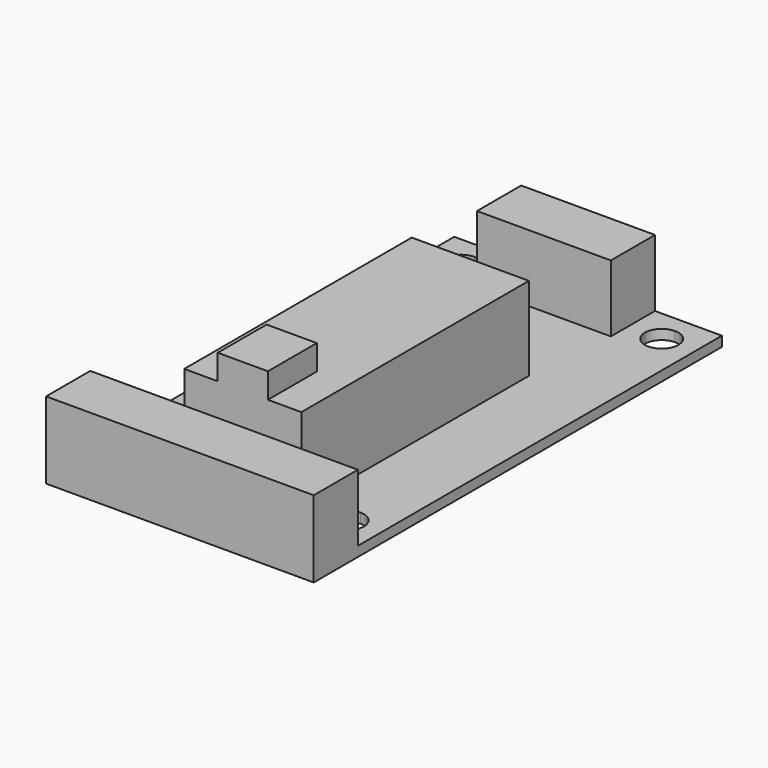
from build123d import *

# Parameters (mm, degrees)
F0_W      = 40.64
F0_H      = 77.47
F1_DEPTH  = 1.5
F2_W      = 40.64
F2_H      = 8.382
F3_DEPTH  = 10.16
F4_W      = 10.16
F4_H      = 8.382
F5_DEPTH  = 10.16
F7_DEPTH  = 1.5
F9_DEPTH  = 12.7
F10_W     = 7.62
F10_H     = 9.271
F11_DEPTH = 3.81


with BuildPart() as f1:
    # F0 (on Top) → F1 (new body)
    with BuildSketch(Plane.XY):
        Rectangle(F0_W, F0_H)
    extrude(amount=F1_DEPTH)

    # F2 (on face) → F3 (join)
    with BuildSketch(Plane.XY.offset(1.5)):
        with Locations((0, 34.544)):
            Rectangle(F2_W, F2_H)
        with Locations((0, -34.544)):
            Rectangle(F2_W, F2_H)
    extrude(amount=F3_DEPTH)

    # F4 (on face) → F5 (cut, through all)
    with BuildSketch(Plane.XY.offset(11.66)):
        with Locations((-15.24, 34.544)):
            Rectangle(F4_W, F4_H)
        with Locations((15.24, 34.544)):
            Rectangle(F4_W, F4_H)
    extrude(amount=-F5_DEPTH, mode=Mode.SUBTRACT)

    # F6 (on face) → F7 (cut, through all)
    with BuildSketch(Plane.XY.offset(1.5)):
        with BuildLine():
            ThreePointArc((-15.24, 31.115), (-13.4439487758, 31.8589487758), (-12.7, 33.655))
            ThreePointArc((-12.7, 33.655), (-13.4439487758, 35.4510512242), (-15.24, 36.195))
            ThreePointArc((-15.24, 36.195), (-17.0360512242, 35.4510512242), (-17.78, 33.655))
            ThreePointArc((-17.78, 33.655), (-17.0360512242, 31.8589487758), (-15.24, 31.115))
        make_face()
        with BuildLine():
            ThreePointArc((15.24, 36.195), (13.4439487758, 35.4510512242), (12.7, 33.655))
            ThreePointArc((12.7, 33.655), (13.4439487758, 31.8589487758), (15.24, 31.115))
            ThreePointArc((15.24, 31.115), (17.0360512242, 31.8589487758), (17.78, 33.655))
            ThreePointArc((17.78, 33.655), (17.0360512242, 35.4510512242), (15.24, 36.195))
        make_face()
        with BuildLine():
            ThreePointArc((17.78, -26.035), (17.0360512242, -24.2389487758), (15.24, -23.495))
            ThreePointArc((15.24, -23.495), (13.4439487758, -24.2389487758), (12.7, -26.035))
            ThreePointArc((12.7, -26.035), (15.24, -28.575), (17.78, -26.035))
        make_face()
        with BuildLine():
            ThreePointArc((-15.24, -23.495), (-17.0360512242, -27.8310512242), (-12.7, -26.035))
            ThreePointArc((-12.7, -26.035), (-13.4439487758, -24.2389487758), (-15.24, -23.495))
        make_face()
    extrude(amount=-F7_DEPTH, mode=Mode.SUBTRACT)

    # F8 (on face) → F9 (join)
    with BuildSketch(Plane.XY.offset(1.5)):
        Polygon((8.89, -26.797), (8.89, 16.383), (0, 16.383), (-8.89, 16.383), (-8.89, -26.797), align=None)
    extrude(amount=F9_DEPTH)

    # F10 (on face) → F11 (join)
    with BuildSketch(Plane.XY.offset(14.2)):
        with Locations((0, -22.1615)):
            Rectangle(F10_W, F10_H)
    extrude(amount=F11_DEPTH)


solid = f1.part
